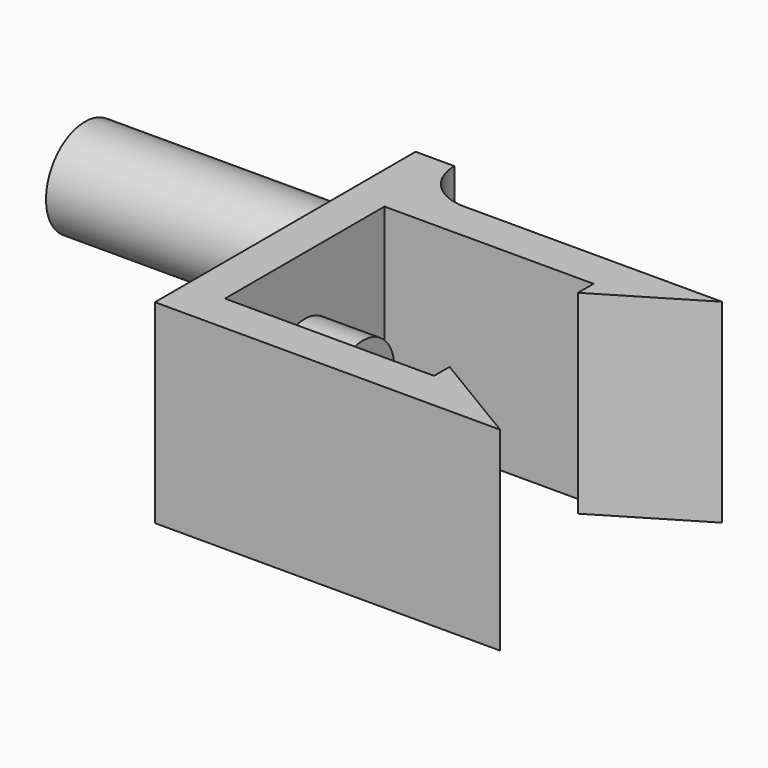
from build123d import *

# Parameters (mm, degrees)
PAD_DEPTH    = 20
PAD003_DEPTH = 20
SKETCH001_R  = 5
PAD004_DEPTH = 30
SKETCH003_R  = 4
PAD005_DEPTH = 10


with BuildPart() as part:
    # Sketch → Pad (new body)
    with BuildSketch(Plane.XY):
        Polygon((0, 0), (35.5, 0), (25.5, 6), (25.5, 4), (4, 4), (4, 24.5), (25.5, 24.5), (25.5, 22.5), (35.5, 28.5), (0, 28.5), align=None)
    extrude(amount=PAD_DEPTH)

    # Sketch002 → Pad003 (join)
    with BuildSketch(Plane.XY):
        with BuildLine():
            Line((0, 33.5), (0, 28.5))
            Line((0, 28.5), (4, 28.5))
            Line((4, 28.5), (9.000029, 28.5))
            ThreePointArc((4, 33.5), (5.464476, 29.964456), (9.000029, 28.5))
            Line((4, 33.5), (0, 33.5))
        make_face()
    extrude(amount=PAD003_DEPTH)

    # Sketch001 → Pad004 (join)
    with BuildSketch(Plane.YZ):
        with Locations((28.5, 10)):
            Circle(SKETCH001_R)
    extrude(amount=-PAD004_DEPTH)

    # Sketch003 → Pad005 (join)
    with BuildSketch(Plane.YZ):
        with Locations((14.25, 10)):
            Circle(SKETCH003_R)
    extrude(amount=PAD005_DEPTH)


solid = part.part
